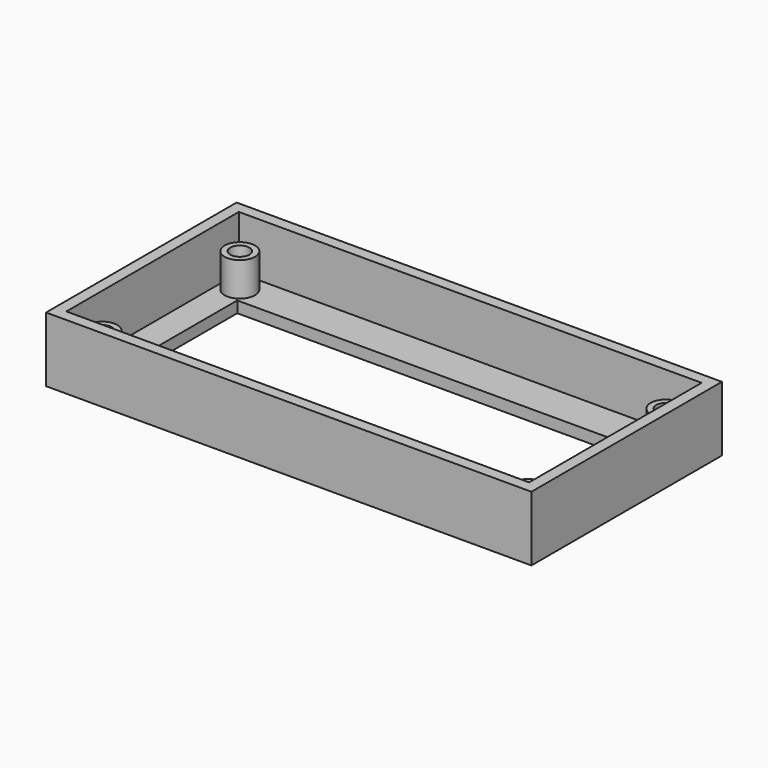
from build123d import *

# Parameters (mm, degrees)
BOX010_W        = 86
BOX010_H        = 42.2
BOX010_DEPTH    = 11.5
BOX011_W        = 82
BOX011_H        = 38.2
BOX011_DEPTH    = 9.5
SKETCH022_R     = 2.7
PAD017_DEPTH    = 6
SKETCH023_W     = 72
SKETCH023_H     = 25
POCKET005_DEPTH = 2
SKETCH024_R     = 1.7
POCKET006_DEPTH = 20


with BuildPart() as part:
    # Box010 → Box010 (join)
    with BuildSketch(Plane.XY):
        with Locations((43, 21.1)):
            Rectangle(BOX010_W, BOX010_H)
    extrude(amount=BOX010_DEPTH)

    # Box011 → Box011 (cut)
    with BuildSketch(Plane(origin=(2, 2, 2), x_dir=(1, 0, 0), z_dir=(0, 0, 1))):
        with Locations((41, 19.1)):
            Rectangle(BOX011_W, BOX011_H)
    extrude(amount=BOX011_DEPTH, mode=Mode.SUBTRACT)

    # Sketch022 → Pad017 (join)
    with BuildSketch(Plane.XY.offset(2)):
        with Locations((5.25, 36.35)):
            Circle(SKETCH022_R)
        with Locations((80.75, 36.35)):
            Circle(SKETCH022_R)
        with Locations((80.75, 5.85)):
            Circle(SKETCH022_R)
        with Locations((5.25, 5.85)):
            Circle(SKETCH022_R)
    extrude(amount=PAD017_DEPTH)

    # Sketch023 → Pocket005 (cut)
    with BuildSketch(Plane.XY):
        with Locations((43, 21.1)):
            Rectangle(SKETCH023_W, SKETCH023_H)
    extrude(amount=POCKET005_DEPTH, mode=Mode.SUBTRACT)

    # Sketch024 → Pocket006 (cut)
    with BuildSketch(Plane.XY):
        with Locations((5.25, 36.35)):
            Circle(SKETCH024_R)
        with Locations((80.75, 36.35)):
            Circle(SKETCH024_R)
        with Locations((80.75, 5.85)):
            Circle(SKETCH024_R)
        with Locations((5.25, 5.85)):
            Circle(SKETCH024_R)
    extrude(amount=POCKET006_DEPTH, mode=Mode.SUBTRACT)


solid = part.part
